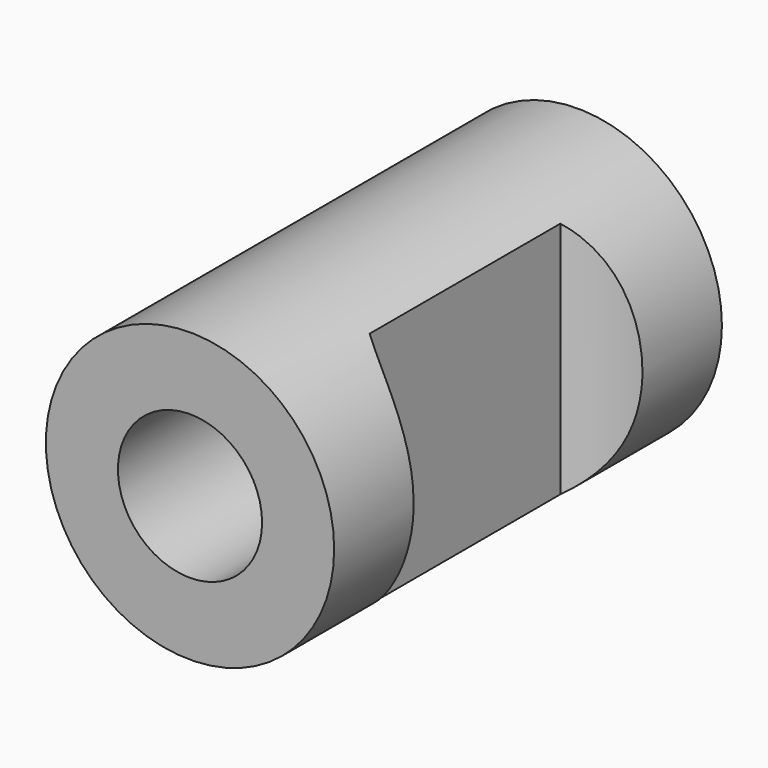
from build123d import *

# Parameters (mm, degrees)
F0_R          = 16
F0_R_2        = 8
F1_DEPTH      = 53.8
F3_DEPTH      = 25
F3_DEPTH_BACK = 16.001


with BuildPart() as f1:
    # F0 (on Front) → F1 (new body)
    with BuildSketch(Plane.XZ):
        Circle(F0_R)
        Circle(F0_R_2, mode=Mode.SUBTRACT)
    extrude(amount=F1_DEPTH)

    # F2 (on Top) → F3 (cut, two sides)
    with BuildSketch(Plane.XY) as f3_sk:
        with BuildLine():
            Line((9, -13.6712434447), (9, -40.1287565553))
            ThreePointArc((9, -40.1287565553), (34, -26.9), (9, -13.6712434447))
        make_face()
    extrude(amount=-F3_DEPTH, mode=Mode.SUBTRACT)
    extrude(f3_sk.sketch, amount=F3_DEPTH_BACK, mode=Mode.SUBTRACT)


solid = f1.part
